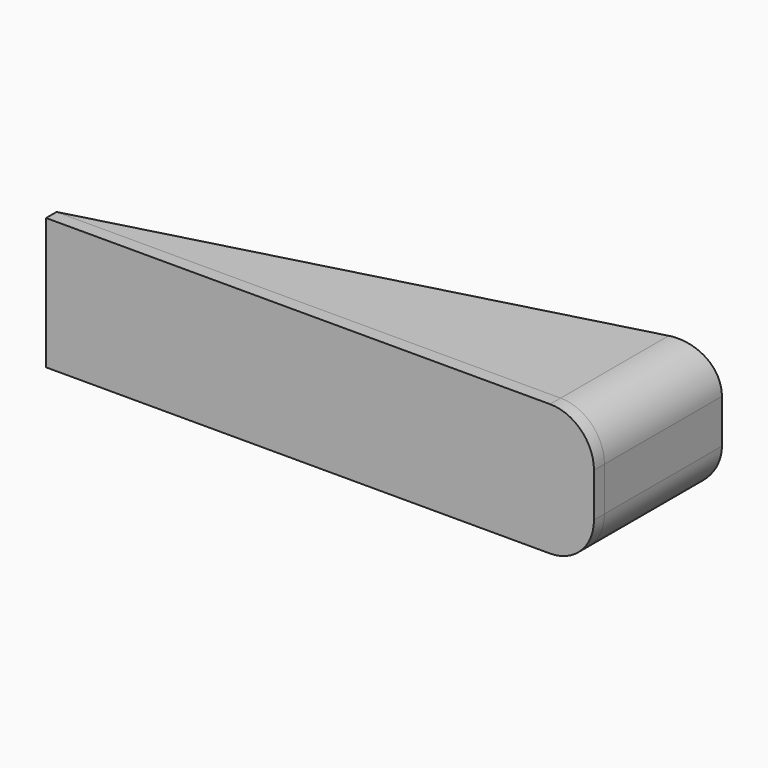
from build123d import *

# Parameters (mm, degrees)
F1_DEPTH = 30
F0_W     = 125
F0_H     = 3
F2_DEPTH = 30
F3_R     = 10
F3_2_R   = 10
F4_R     = 10
F5_R     = 10


with BuildPart() as f1:
    # F0 (on Top) → F1 (new body)
    with BuildSketch(Plane.XY):
        Polygon((125, 33.493649), (0, 0), (125, 0), align=None)
    extrude(amount=F1_DEPTH)

    # F3
    f3_edges = [f1.edges().sort_by_distance(p)[0] for p in [
        (125, 16.746825, 30),
    ]]
    fillet(f3_edges, radius=F3_R)

    # F4
    f4_edges = [f1.edges().sort_by_distance(p)[0] for p in [
        (125, 16.746825, 0),
    ]]
    fillet(f4_edges, radius=F4_R)


with BuildPart() as f2:
    # F0 (on Top) → F2 (new body)
    with BuildSketch(Plane.XY):
        with Locations((62.5, -1.5)):
            Rectangle(F0_W, F0_H)
    extrude(amount=F2_DEPTH)

    # F3#2
    f3_2_edges = [f2.edges().sort_by_distance(p)[0] for p in [
        (125, -1.5, 30),
    ]]
    fillet(f3_2_edges, radius=F3_2_R)

    # F5
    f5_edges = [f2.edges().sort_by_distance(p)[0] for p in [
        (125, -1.5, 0),
    ]]
    fillet(f5_edges, radius=F5_R)


solid = Compound([f1.part, f2.part])
